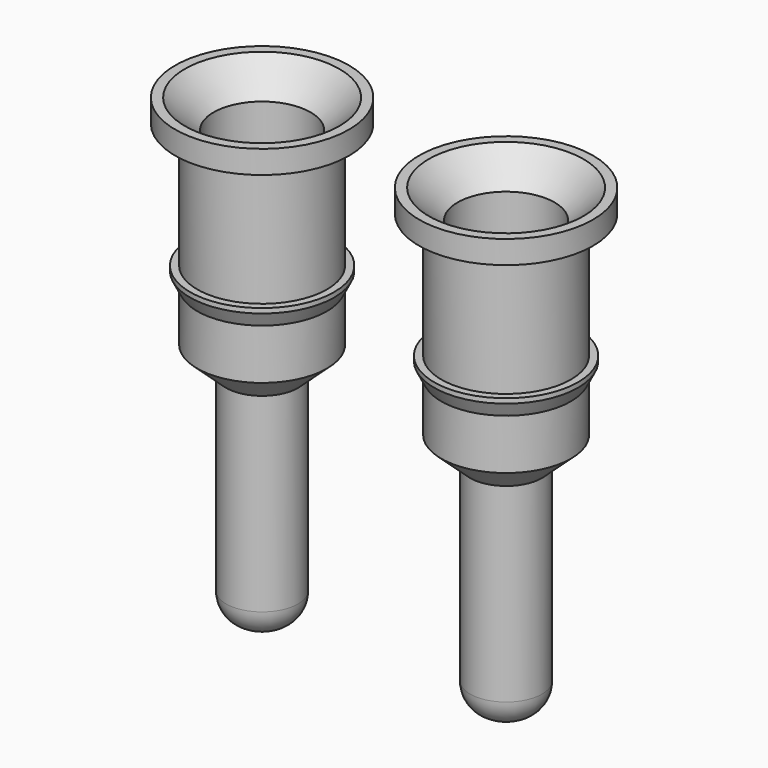
from build123d import *

# Parameters (mm, degrees)
SKETCH021_R      = 0.3
EXTRUDE007_DEPTH = 2
SKETCH013_R      = 0.375
EXTRUDE006_DEPTH = 2.28
FILLET_R         = 0.3
SKETCH020_R      = 0.505
EXTRUDE005_DEPTH = 4
SKETCH019_R      = 0.905
EXTRUDE003_DEPTH = 0.24
SKETCH018_R      = 0.675
EXTRUDE004_DEPTH = 1.3
SKETCH014_R      = 0.675
SKETCH015_R      = 0.675
SKETCH016_R      = 0.75
SKETCH017_R      = 0.75
CHAMFER001_SIZE  = 0.3
ARRAY003_X_COUNT = 2
ARRAY003_X_PITCH = 2.54


with BuildPart() as extrude007:
    # Sketch021 → Extrude007 (new body)
    with BuildSketch(Plane.XY):
        Circle(SKETCH021_R)
    extrude(amount=-EXTRUDE007_DEPTH)


with BuildPart() as cut003:
    # Sketch013 → Extrude006 (new body)
    with BuildSketch(Plane.XY):
        Circle(SKETCH013_R)
    extrude(amount=-EXTRUDE006_DEPTH)

    # Fillet
    fillet_edges = [cut003.edges().sort_by_distance(p)[0] for p in [
        (-0.375, 0, -2.28),
    ]]
    fillet(fillet_edges, radius=FILLET_R)

    # Cut003: cut Extrude007
    add(extrude007.part, mode=Mode.SUBTRACT)


with BuildPart() as extrude005:
    # Sketch020 → Extrude005 (new body)
    with BuildSketch(Plane.XY.offset(0.4)):
        Circle(SKETCH020_R)
    extrude(amount=EXTRUDE005_DEPTH)


with BuildPart() as extrude003:
    # Sketch019 → Extrude003 (new body)
    with BuildSketch(Plane.XY.offset(2.3)):
        Circle(SKETCH019_R)
    extrude(amount=EXTRUDE003_DEPTH)


with BuildPart() as extrude004:
    # Sketch018 → Extrude004 (new body)
    with BuildSketch(Plane.XY.offset(1)):
        Circle(SKETCH018_R)
    extrude(amount=EXTRUDE004_DEPTH)


with BuildPart() as array003:
    # Sketch013 → Loft004 section 0
    with BuildSketch(Plane.XY):
        Circle(SKETCH013_R)
    # Sketch014 → Loft004 section 1
    with BuildSketch(Plane.XY.offset(0.275)):
        Circle(SKETCH014_R)
    # Sketch015 → Loft004 section 2
    with BuildSketch(Plane.XY.offset(0.8)):
        Circle(SKETCH015_R)
    # Sketch016 → Loft004 section 3
    with BuildSketch(Plane.XY.offset(0.95)):
        Circle(SKETCH016_R)
    # Sketch017 → Loft004 section 4
    with BuildSketch(Plane.XY.offset(1)):
        Circle(SKETCH017_R)
    loft(ruled=True)

    # Fusion002: union Extrude003, Extrude004
    add(extrude003.part)
    add(extrude004.part)

    # Cut002: cut Extrude005
    add(extrude005.part, mode=Mode.SUBTRACT)

    # Chamfer001
    chamfer001_edges = [array003.edges().sort_by_distance(p)[0] for p in [
        (-0.505, 0, 2.54),
    ]]
    chamfer(chamfer001_edges, length=CHAMFER001_SIZE)

    # Fusion003: union Cut003
    add(cut003.part)


with BuildPart() as array003_1:
    # Fusion003 placement: moved
    add(array003.part.moved(Location((0, 0, 1.16))))

    # Array003 X: Array003 ×2


with BuildPart() as array003_2:
    add(array003_1.part)
    with Locations(*[(i * ARRAY003_X_PITCH, 0, 0) for i in range(1, ARRAY003_X_COUNT)]):
        add(array003_1.part)


solid = array003_2.part
